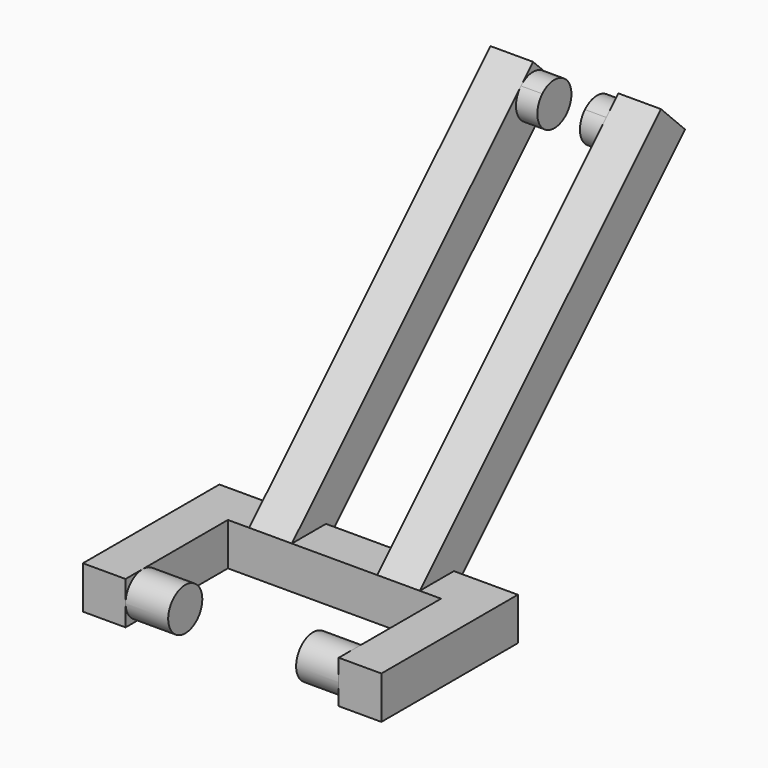
from build123d import *

# Parameters (mm, degrees)
F1_DEPTH = 25.4
F2_R     = 12.7
F3_DEPTH = 25.4
F6_W     = 25.4
F6_H     = 254
F7_DEPTH = 25.4
F9_DEPTH = 12.7


with BuildPart() as f1:
    # F0 (on Top) → F1 (new body)
    with BuildSketch(Plane.XY):
        Polygon((-88.9, 0), (-63.5, 0), (-63.5, 76.2), (0, 76.2), (63.5, 76.2), (63.5, 0), (88.9, 0), (88.9, 101.6), (0, 101.6), (-88.9, 101.6), align=None)
    extrude(amount=F1_DEPTH)

    # F2 (on face) → F3 (join)
    with BuildSketch(Plane.YZ.offset(-63.5)):
        with Locations((12.6999979839, 12.7)):
            Circle(F2_R)
    extrude(amount=F3_DEPTH)

    # F4: F1 across plane


with BuildPart() as f1_1:
    add(f1.part)
    add(f1.part.mirror(Plane.YZ))

    # F6 (on face) → F7 (join)
    with BuildSketch(Plane(origin=(0, 25.4, -25.4), x_dir=(-1, 0, 0), z_dir=(0, 0.7071067812, -0.7071067812))):
        with Locations((38.1, 198.8420489686)):
            Rectangle(F6_W, F6_H)
    extrude(amount=F7_DEPTH)

    # F8 (on face) → F9 (join)
    with BuildSketch(Plane.YZ.offset(-25.4)):
        with BuildLine():
            ThreePointArc((264.7853785425, 178.0643540582), (267.5383924843, 182.1845305882), (268.5051224214, 187.0446101792))
            ThreePointArc((268.5051224214, 187.0446101792), (267.5383924843, 191.9046897703), (264.7853785425, 196.0248663003))
            ThreePointArc((264.7853785425, 196.0248663003), (255.8051224214, 199.7446101792), (246.8248663003, 196.0248663003))
            ThreePointArc((246.8248663003, 196.0248663003), (246.8248663003, 178.0643540582), (264.7853785425, 178.0643540582))
        make_face()
    extrude(amount=F9_DEPTH)

    # F10: F1 across plane


with BuildPart() as f1_2:
    add(f1_1.part)
    add(f1_1.part.mirror(Plane.YZ))


solid = f1_2.part
